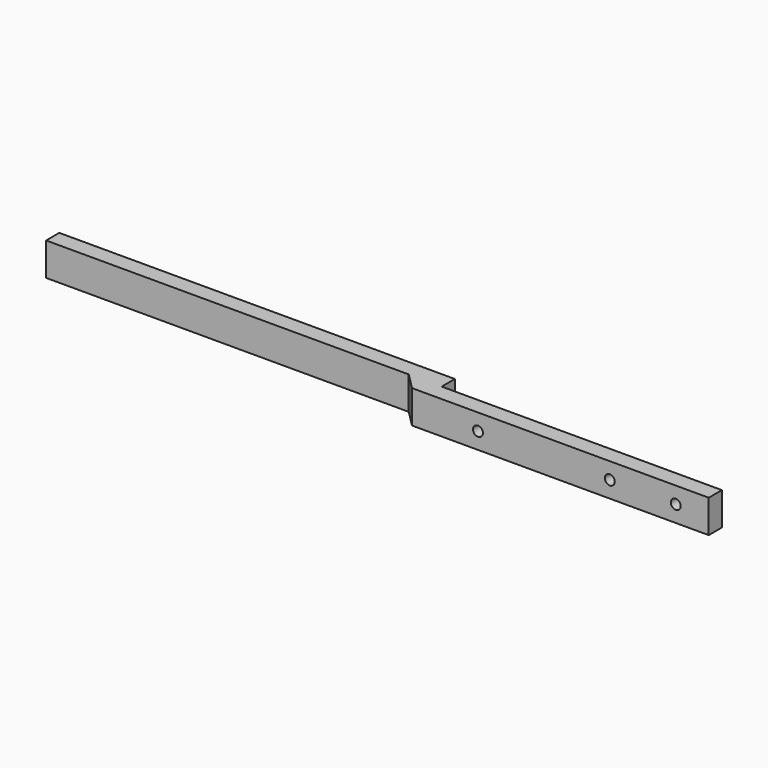
from build123d import *

# Parameters (mm, degrees)
F1_DEPTH = 10
F2_R     = 1.5
F3_DEPTH = 10.001


with BuildPart() as f1:
    # F0 (on Top) → F1 (new body)
    with BuildSketch(Plane.XY):
        Polygon((13.363348, 15.175648), (-106.636652, 15.175648), (-106.636652, 10.175648), (3.363348, 10.175648), (8.363348, 5.175648), (13.363348, 5.175648), (98.363348, 5.175648), (98.363348, 10.175648), (13.363348, 10.175648), align=None)
    extrude(amount=F1_DEPTH)

    # F2 (on face) → F3 (cut, through all)
    with BuildSketch(Plane.XZ.offset(-5.175648)):
        with Locations((88.363348, 5)):
            Circle(F2_R)
        with Locations((68.363348, 5)):
            Circle(F2_R)
        with Locations((28.363348, 5)):
            Circle(F2_R)
    extrude(amount=-F3_DEPTH, mode=Mode.SUBTRACT)


solid = f1.part
